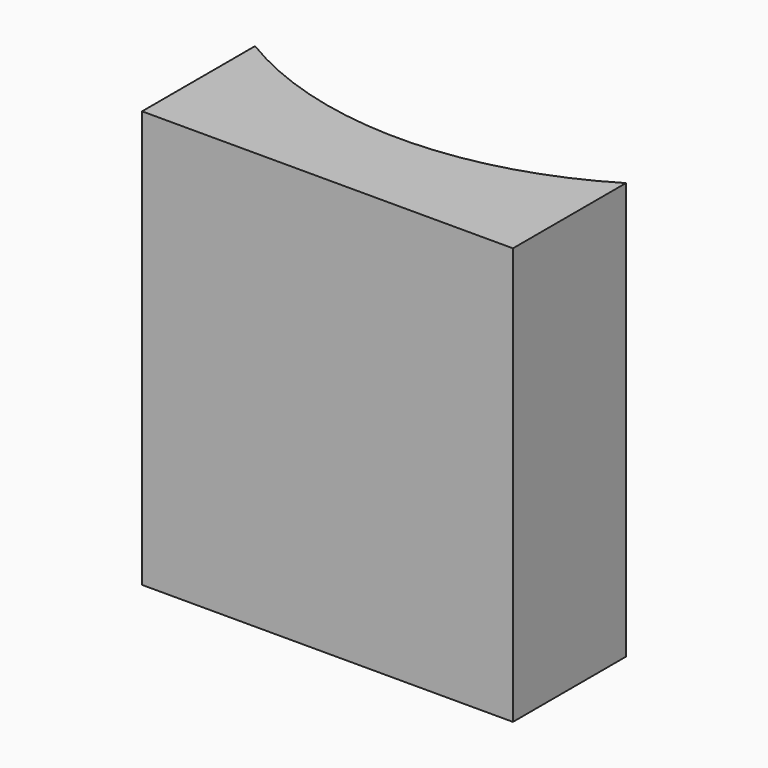
from build123d import *

# Parameters (mm, degrees)
CYLINDER001_R       = 14
CYLINDER001_DEPTH   = 19
BOX_W               = 17.5
BOX_H               = 14.5
BOX_DEPTH           = 16.3
CUT_PLACEMENT_ANGLE = 90


with BuildPart() as cylinder001:
    # Cylinder001 → Cylinder001 (new body)
    with BuildSketch(Plane.XY):
        Circle(CYLINDER001_R)
    extrude(amount=CYLINDER001_DEPTH)


with BuildPart() as cut:
    # Box → Box (new body)
    with BuildSketch(Plane(origin=(0, -7.25, 2.7), x_dir=(1, 0, 0), z_dir=(0, 0, 1))):
        with Locations((8.75, 7.25)):
            Rectangle(BOX_W, BOX_H)
    extrude(amount=BOX_DEPTH)

    # Cut: cut Cylinder001
    add(cylinder001.part, mode=Mode.SUBTRACT)


with BuildPart() as cut_1:
    # Cut placement: moved
    add(cut.part.rotate(Axis((0, 0, 0), (0, 0, -1)), CUT_PLACEMENT_ANGLE))


solid = cut_1.part
